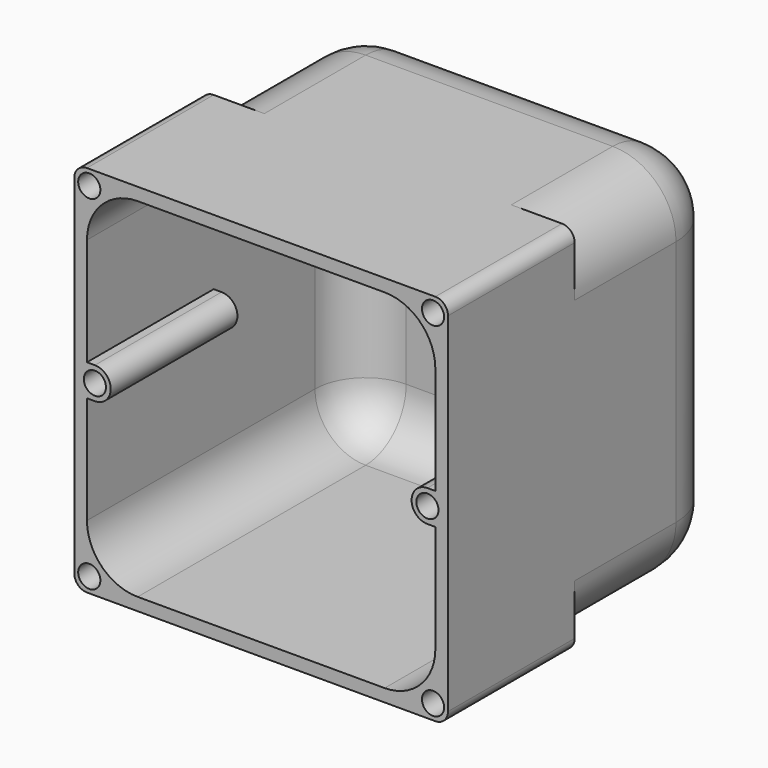
from build123d import *

# Parameters (mm, degrees)
F0_W     = 59
F0_H     = 59
F1_DEPTH = 55
F2_R     = 10
F3_T     = -2
F5_DEPTH = 25
F6_R     = 1.75
F7_DEPTH = 20
F8_R     = 2


with BuildPart() as f1:
    # F0 (on Front) → F1 (new body)
    with BuildSketch(Plane.XZ):
        Rectangle(F0_W, F0_H)
    extrude(amount=F1_DEPTH)

    # F2
    f2_edges = [f1.edges().sort_by_distance(p)[0] for p in [
        (-29.5, -27.5, 29.5),
        (29.5, -27.5, 29.5),
        (29.5, -27.5, -29.5),
        (-29.5, -27.5, -29.5),
        (29.5, 0, 0),
        (0, 0, 29.5),
        (0, 0, -29.5),
        (-29.5, 0, 0),
    ]]
    fillet(f2_edges, radius=F2_R)

    # F3
    f3_openings = [f1.faces().sort_by_distance(p)[0] for p in [
        (0, -55, 0),
    ]]
    offset(amount=F3_T, openings=f3_openings)

    # F4 (on face) → F5 (join)
    with BuildSketch(Plane.XZ.offset(55)):
        with BuildLine():
            ThreePointArc((-29.5, 19.5), (-26.571068, 26.571068), (-19.5, 29.5))
            Line((-19.5, 29.5), (-29.5, 29.5))
            Line((-29.5, 29.5), (-29.5, 19.5))
        make_face()
        with BuildLine():
            Line((29.5, 29.5), (19.5, 29.5))
            ThreePointArc((19.5, 29.5), (26.571068, 26.571068), (29.5, 19.5))
            Line((29.5, 19.5), (29.5, 29.5))
        make_face()
        with BuildLine():
            Line((-29.5, -19.5), (-29.5, -29.5))
            Line((-29.5, -29.5), (-19.5, -29.5))
            ThreePointArc((-19.5, -29.5), (-26.571068, -26.571068), (-29.5, -19.5))
        make_face()
        with BuildLine():
            ThreePointArc((29.5, -19.5), (26.571068, -26.571068), (19.5, -29.5))
            Line((19.5, -29.5), (29.5, -29.5))
            Line((29.5, -29.5), (29.5, -19.5))
        make_face()
        with BuildLine():
            Line((-27.5, -2.5), (-26.25, -2.5))
            ThreePointArc((-26.25, -2.5), (-23.75, 0), (-26.25, 2.5))
            Line((-26.25, 2.5), (-27.5, 2.5))
            Line((-27.5, 2.5), (-27.5, -2.5))
        make_face()
        with BuildLine():
            ThreePointArc((26.25, 2.5), (23.75, 0), (26.25, -2.5))
            Line((26.25, -2.5), (27.5, -2.5))
            Line((27.5, -2.5), (27.5, 2.5))
            Line((27.5, 2.5), (26.25, 2.5))
        make_face()
    extrude(amount=-F5_DEPTH)

    # F6 (on face) → F7 (cut)
    with BuildSketch(Plane.XZ.offset(55)):
        with Locations((27.136753, 27.136753)):
            Circle(F6_R)
        with Locations((27.136753, -27.136753)):
            Circle(F6_R)
        with Locations((-27.136753, -27.136753)):
            Circle(F6_R)
        with Locations((-27.136753, 27.136753)):
            Circle(F6_R)
        with Locations((-26.25, 0)):
            Circle(F6_R)
        with Locations((26.25, 0)):
            Circle(F6_R)
    extrude(amount=-F7_DEPTH, mode=Mode.SUBTRACT)

    # F8
    f8_edges = [f1.edges().sort_by_distance(p)[0] for p in [
        (29.5, -42.5, 29.5),
        (29.5, -42.5, -29.5),
        (-29.5, -42.5, 29.5),
        (-29.5, -42.5, -29.5),
    ]]
    fillet(f8_edges, radius=F8_R)


solid = f1.part
